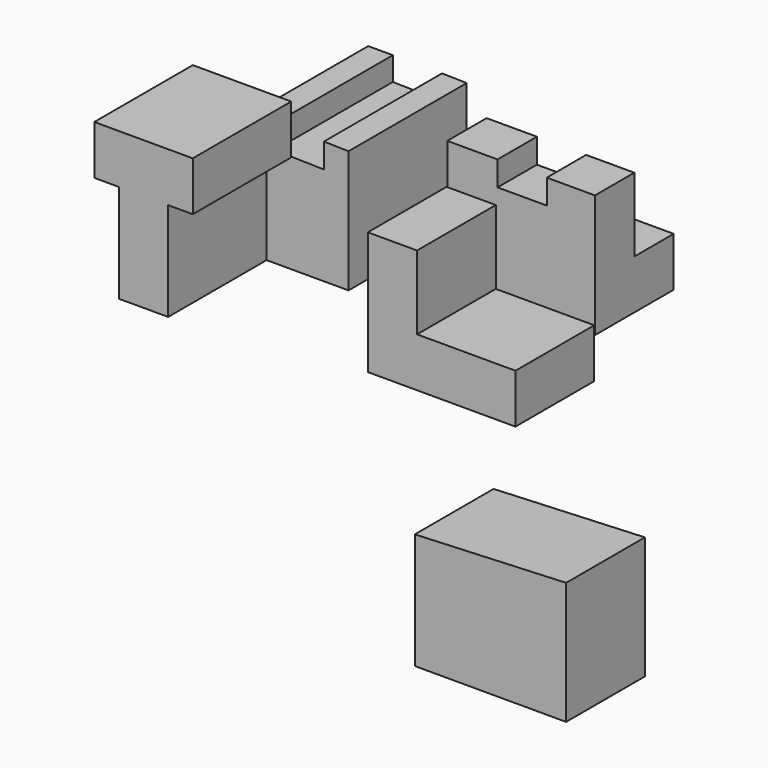
from build123d import *

# Parameters (mm, degrees)
F1_DEPTH  = 25.4
F3_DEPTH  = 31.75
F5_DEPTH  = 38.1
F6_W      = 12.7
F6_H      = 6.35
F7_DEPTH  = 25.4
F9_DEPTH  = 38.1
F10_W     = 12.7
F10_H     = 6.35
F11_DEPTH = 25.4
F13_DEPTH = 25.4


with BuildPart() as f1:
    # F0 (on Front) → F1 (new body)
    with BuildSketch(Plane.XZ):
        Polygon((25.126881, 31.75), (12.426881, 31.75), (12.426881, 0), (50.526881, 0), (50.526881, 12.7), (25.126881, 12.7), align=None)
    extrude(amount=F1_DEPTH)


with BuildPart() as f3:
    # F2 (on Front) → F3 (new body)
    with BuildSketch(Plane.XZ):
        Polygon((-27.65778, 38.1), (-53.05778, 38.1), (-53.05778, 25.4), (-46.70778, 25.4), (-46.70778, 0), (-34.00778, 0), (-34.00778, 25.4), (-27.65778, 25.4), align=None)
    extrude(amount=F3_DEPTH)

    # F8 (on Front) → F9 (join)
    with BuildSketch(Plane.XZ):
        Polygon((-38.267327, 0), (-12.867327, 0), (-12.867327, 31.614923), (-19.21589, 31.75), (-19.21589, 25.4), (-31.913016, 25.670154), (-31.917327, 31.75), (-38.267327, 31.75), align=None)
    extrude(amount=-F9_DEPTH)

    # F10 (on face) → F11 (cut)
    with BuildSketch(Plane(origin=(-38.267327, 0, 0), x_dir=(0, -1, 0), z_dir=(-1, 0, 0))):
        with Locations((-20.745586, 3.175)):
            Rectangle(F10_W, F10_H)
    extrude(amount=-F11_DEPTH, mode=Mode.SUBTRACT)


with BuildPart() as f5:
    # F4 (on Right) → F5 (new body)
    with BuildSketch(Plane.YZ):
        Polygon((15.754736, 31.75), (15.754736, 0), (41.154736, 0), (41.154736, 12.7), (28.454736, 12.7), (28.454736, 31.75), align=None)
    extrude(amount=F5_DEPTH)

    # F6 (on face) → F7 (cut)
    with BuildSketch(Plane(origin=(0, 28.454736, 0), x_dir=(-1, 0, 0), z_dir=(0, 1, 0))):
        with Locations((-19.326969, 28.575)):
            Rectangle(F6_W, F6_H)
    extrude(amount=-F7_DEPTH, mode=Mode.SUBTRACT)


with BuildPart() as f13:
    # F12 (on Front) → F13 (new body)
    with BuildSketch(Plane.XZ):
        Polygon((63.590296, -31.227414), (24.553783, -32.91278), (24.553783, -62.821284), (63.590296, -62.821284), align=None)
    extrude(amount=F13_DEPTH)


solid = Compound([f1.part, f3.part, f5.part, f13.part])
